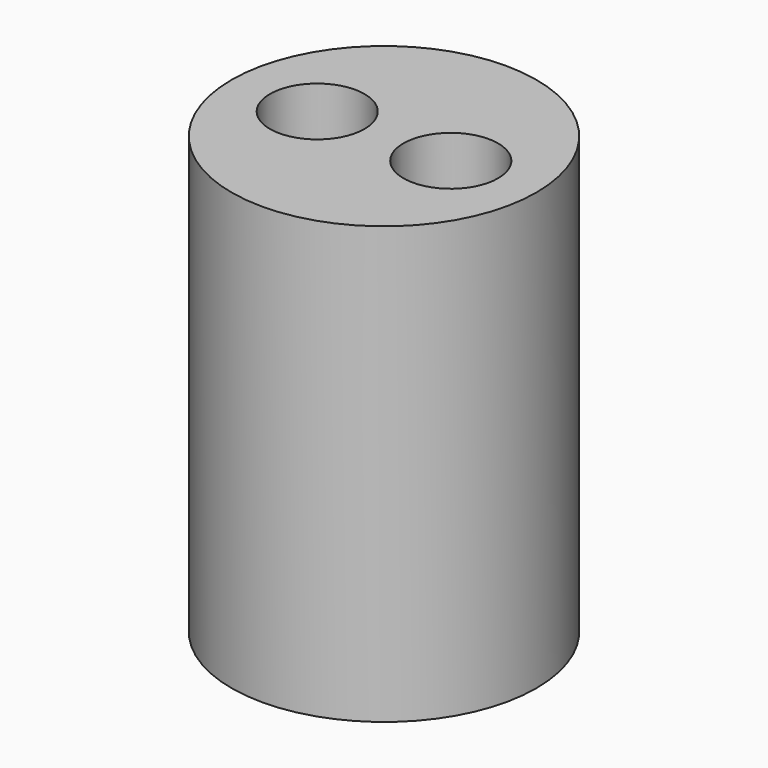
from build123d import *

# Parameters (mm, degrees)
SKETCH_R     = 2.9
PAD_DEPTH    = 8.3
SKETCH001_R  = 0.9
POCKET_DEPTH = 10


with BuildPart() as part:
    # Sketch → Pad (new body)
    with BuildSketch(Plane.XY):
        Circle(SKETCH_R)
    extrude(amount=PAD_DEPTH)

    # Sketch001 (on Face3 of Pad) → Pocket (cut)
    with BuildSketch(Plane.XY.offset(8.3)):
        with Locations((-1.27, 0)):
            Circle(SKETCH001_R)
        with Locations((1.27, 0)):
            Circle(SKETCH001_R)
    extrude(amount=-POCKET_DEPTH, mode=Mode.SUBTRACT)


solid = part.part
